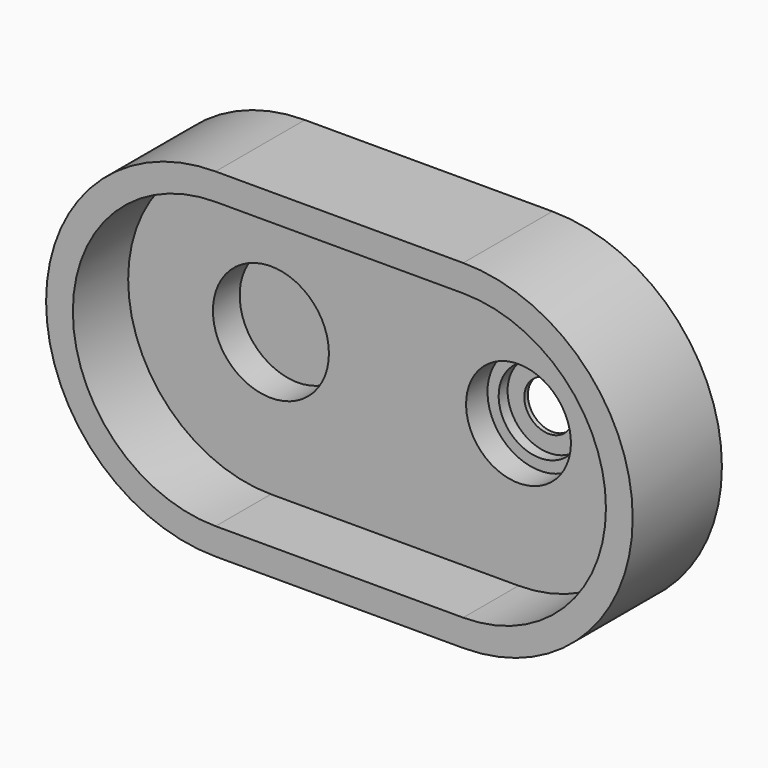
from build123d import *

# Parameters (mm, degrees)
F1_DEPTH = 50
F2_DEPTH = 19
F3_R     = 26
F4_DEPTH = 15


with BuildPart() as f1:
    # F0 (on Front) → F1 (new body)
    with BuildSketch(Plane.XZ):
        with BuildLine():
            Line((-55.5, -76), (55.5, -76))
            ThreePointArc((55.5, -76), (131.5, 0), (55.5, 76))
            Line((55.5, 76), (-55.5, 76))
            ThreePointArc((-55.5, 76), (-131.5, 0), (-55.5, -76))
        make_face()
        with BuildLine():
            ThreePointArc((-55.5, -64), (-119.5, 0), (-55.5, 64))
            Line((-55.5, 64), (55.5, 64))
            ThreePointArc((55.5, 64), (119.5, 0), (55.5, -64))
            Line((55.5, -64), (-55.5, -64))
        make_face(mode=Mode.SUBTRACT)
    extrude(amount=F1_DEPTH)

    # F0 (on Front) → F2 (join)
    with BuildSketch(Plane.XZ):
        with BuildLine():
            Line((55.5, 64), (-55.5, 64))
            ThreePointArc((-55.5, 64), (-119.5, 0), (-55.5, -64))
            Line((-55.5, -64), (55.5, -64))
            ThreePointArc((55.5, -64), (119.5, 0), (55.5, 64))
        make_face()
    extrude(amount=F2_DEPTH)

    # F3 (on face) → F4 (cut)
    with BuildSketch(Plane.XZ.offset(19)):
        with Locations((-55.5, 0)):
            Circle(F3_R)
    extrude(amount=-F4_DEPTH, mode=Mode.SUBTRACT)

    # F6 (on offset) → F7 (revolve, cut)
    with BuildSketch(Plane.YZ.offset(55.5)):
        Polygon((0, 0), (0, 11), (-2, 11), (-2, 18.5), (-7, 18.5), (-7, 23.5), (-19, 23.5), (-19, 0), align=None)
    revolve(axis=Axis((55.5, -9.5, 0), (0, 1, 0)), mode=Mode.SUBTRACT)


solid = f1.part
